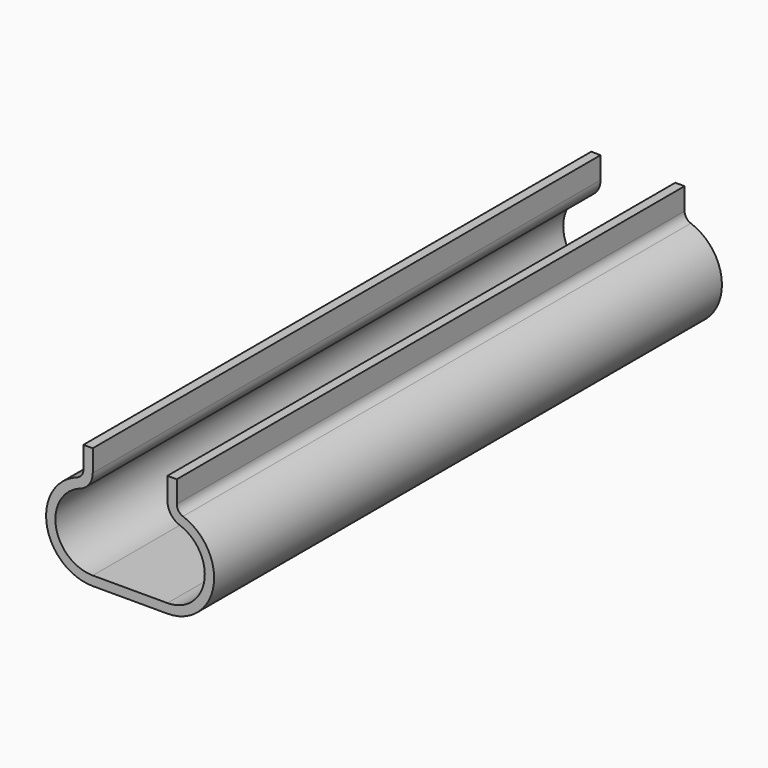
from build123d import *

# Parameters (mm, degrees)
F1_DEPTH = 170


with BuildPart() as f1:
    # F0 (on Front) → F1 (new body)
    with BuildSketch(Plane.XZ):
        with BuildLine():
            Line((-10, -5.857864), (-10, 0))
            Line((-10, 0), (-12.5, 0))
            Line((-12.5, 0), (-12.5, -5.857864))
            ThreePointArc((-12.5, -5.857864), (-12.958759, -7.30124), (-14.166667, -8.214887))
            ThreePointArc((-14.166667, -8.214887), (-22.319982, -22.113775), (-10, -32.5))
            Line((-10, -32.5), (10, -32.5))
            ThreePointArc((10, -32.5), (22.319982, -22.113775), (14.166667, -8.214887))
            ThreePointArc((14.166667, -8.214887), (12.958759, -7.30124), (12.5, -5.857864))
            Line((12.5, -5.857864), (12.5, 0))
            Line((12.5, 0), (10, 0))
            Line((10, 0), (10, -5.857864))
            ThreePointArc((10, -5.857864), (10.917517, -8.744616), (13.333333, -10.57191))
            ThreePointArc((13.333333, -10.57191), (19.855986, -21.69102), (10, -30))
            Line((10, -30), (-10, -30))
            ThreePointArc((-10, -30), (-19.855986, -21.69102), (-13.333333, -10.57191))
            ThreePointArc((-13.333333, -10.57191), (-10.917517, -8.744616), (-10, -5.857864))
        make_face()
    extrude(amount=F1_DEPTH)


solid = f1.part
